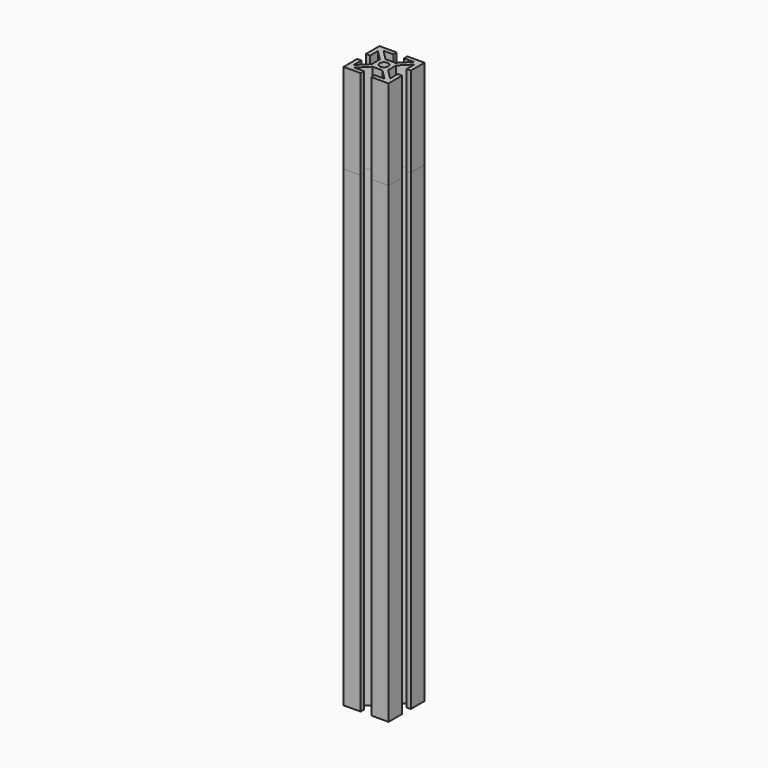
from build123d import *

# Parameters (mm, degrees)
F1_R     = 1.9304845919
F2_DEPTH = 250
F3_DEPTH = 60
F4_DEPTH = 75
F5_DEPTH = 200
F6_DEPTH = 48
F7_DEPTH = 210


with BuildPart() as f2:
    # F1 (on Top) → F2 (new body)
    with BuildSketch(Plane.XY):
        Polygon((13.4341245338, 14.9968527253), (5.8121823951, 14.9968527253), (5.8121823951, 7.3809957916), (7.7024240943, 7.3809957916), (7.7024240943, 11.7346603424), (12.2024253151, 7.2346554595), (12.2024253151, 2.7590573149), (7.7024240943, -1.7409451265), (7.7024240943, 2.6127145415), (5.8121823951, 2.6127145415), (5.8121823951, -5.0031448336), (13.428025901, -5.0031448336), (13.428025901, -3.1311843844), (9.0865720435, -3.1311843843), (13.6048667213, 1.3870968657), (18.0134067604, 1.3870968657), (22.5316855691, -3.1311843843), (18.1902256081, -3.1311843843), (18.1902256081, -5.0031448336), (25.8121860574, -5.0031448336), (25.8121860574, 2.6127145415), (23.9219467996, 2.6127145415), (23.9219467996, -1.7409451265), (19.4219272683, 2.759057315), (19.4219272683, 7.2346554596), (23.9219467996, 11.7346603424), (23.9219467996, 7.3809957916), (25.8121860574, 7.3809957916), (25.8121860574, 14.9968527253), (18.1963266823, 14.9968527253), (18.1963266823, 13.1249008209), (22.5377866433, 13.1249008209), (18.0195053932, 8.6066159088), (13.6109653541, 8.6066159088), (9.0926682349, 13.1249008209), (13.4341245338, 13.1249008209), align=None)
        with Locations((15.8152353737, 4.9968563872)):
            Circle(F1_R, mode=Mode.SUBTRACT)
    extrude(amount=F2_DEPTH)


with BuildPart() as f3:
    # F1 (on Top) → F3 (new body)
    with BuildSketch(Plane.XY):
        Polygon((13.4341245338, 14.9968527253), (5.8121823951, 14.9968527253), (5.8121823951, 7.3809957916), (7.7024240943, 7.3809957916), (7.7024240943, 11.7346603424), (12.2024253151, 7.2346554595), (12.2024253151, 2.7590573149), (7.7024240943, -1.7409451265), (7.7024240943, 2.6127145415), (5.8121823951, 2.6127145415), (5.8121823951, -5.0031448336), (13.428025901, -5.0031448336), (13.428025901, -3.1311843844), (9.0865720435, -3.1311843843), (13.6048667213, 1.3870968657), (18.0134067604, 1.3870968657), (22.5316855691, -3.1311843843), (18.1902256081, -3.1311843843), (18.1902256081, -5.0031448336), (25.8121860574, -5.0031448336), (25.8121860574, 2.6127145415), (23.9219467996, 2.6127145415), (23.9219467996, -1.7409451265), (19.4219272683, 2.759057315), (19.4219272683, 7.2346554596), (23.9219467996, 11.7346603424), (23.9219467996, 7.3809957916), (25.8121860574, 7.3809957916), (25.8121860574, 14.9968527253), (18.1963266823, 14.9968527253), (18.1963266823, 13.1249008209), (22.5377866433, 13.1249008209), (18.0195053932, 8.6066159088), (13.6109653541, 8.6066159088), (9.0926682349, 13.1249008209), (13.4341245338, 13.1249008209), align=None)
        with Locations((15.8152353737, 4.9968563872)):
            Circle(F1_R, mode=Mode.SUBTRACT)
    extrude(amount=F3_DEPTH)


with BuildPart() as f4:
    # F1 (on Top) → F4 (new body)
    with BuildSketch(Plane.XY):
        Polygon((13.4341245338, 14.9968527253), (5.8121823951, 14.9968527253), (5.8121823951, 7.3809957916), (7.7024240943, 7.3809957916), (7.7024240943, 11.7346603424), (12.2024253151, 7.2346554595), (12.2024253151, 2.7590573149), (7.7024240943, -1.7409451265), (7.7024240943, 2.6127145415), (5.8121823951, 2.6127145415), (5.8121823951, -5.0031448336), (13.428025901, -5.0031448336), (13.428025901, -3.1311843844), (9.0865720435, -3.1311843843), (13.6048667213, 1.3870968657), (18.0134067604, 1.3870968657), (22.5316855691, -3.1311843843), (18.1902256081, -3.1311843843), (18.1902256081, -5.0031448336), (25.8121860574, -5.0031448336), (25.8121860574, 2.6127145415), (23.9219467996, 2.6127145415), (23.9219467996, -1.7409451265), (19.4219272683, 2.759057315), (19.4219272683, 7.2346554596), (23.9219467996, 11.7346603424), (23.9219467996, 7.3809957916), (25.8121860574, 7.3809957916), (25.8121860574, 14.9968527253), (18.1963266823, 14.9968527253), (18.1963266823, 13.1249008209), (22.5377866433, 13.1249008209), (18.0195053932, 8.6066159088), (13.6109653541, 8.6066159088), (9.0926682349, 13.1249008209), (13.4341245338, 13.1249008209), align=None)
        with Locations((15.8152353737, 4.9968563872)):
            Circle(F1_R, mode=Mode.SUBTRACT)
    extrude(amount=F4_DEPTH)


with BuildPart() as f5:
    # F1 (on Top) → F5 (new body)
    with BuildSketch(Plane.XY):
        Polygon((13.4341245338, 14.9968527253), (5.8121823951, 14.9968527253), (5.8121823951, 7.3809957916), (7.7024240943, 7.3809957916), (7.7024240943, 11.7346603424), (12.2024253151, 7.2346554595), (12.2024253151, 2.7590573149), (7.7024240943, -1.7409451265), (7.7024240943, 2.6127145415), (5.8121823951, 2.6127145415), (5.8121823951, -5.0031448336), (13.428025901, -5.0031448336), (13.428025901, -3.1311843844), (9.0865720435, -3.1311843843), (13.6048667213, 1.3870968657), (18.0134067604, 1.3870968657), (22.5316855691, -3.1311843843), (18.1902256081, -3.1311843843), (18.1902256081, -5.0031448336), (25.8121860574, -5.0031448336), (25.8121860574, 2.6127145415), (23.9219467996, 2.6127145415), (23.9219467996, -1.7409451265), (19.4219272683, 2.759057315), (19.4219272683, 7.2346554596), (23.9219467996, 11.7346603424), (23.9219467996, 7.3809957916), (25.8121860574, 7.3809957916), (25.8121860574, 14.9968527253), (18.1963266823, 14.9968527253), (18.1963266823, 13.1249008209), (22.5377866433, 13.1249008209), (18.0195053932, 8.6066159088), (13.6109653541, 8.6066159088), (9.0926682349, 13.1249008209), (13.4341245338, 13.1249008209), align=None)
        with Locations((15.8152353737, 4.9968563872)):
            Circle(F1_R, mode=Mode.SUBTRACT)
    extrude(amount=F5_DEPTH)


with BuildPart() as f6:
    # F1 (on Top) → F6 (new body)
    with BuildSketch(Plane.XY):
        Polygon((13.4341245338, 14.9968527253), (5.8121823951, 14.9968527253), (5.8121823951, 7.3809957916), (7.7024240943, 7.3809957916), (7.7024240943, 11.7346603424), (12.2024253151, 7.2346554595), (12.2024253151, 2.7590573149), (7.7024240943, -1.7409451265), (7.7024240943, 2.6127145415), (5.8121823951, 2.6127145415), (5.8121823951, -5.0031448336), (13.428025901, -5.0031448336), (13.428025901, -3.1311843844), (9.0865720435, -3.1311843843), (13.6048667213, 1.3870968657), (18.0134067604, 1.3870968657), (22.5316855691, -3.1311843843), (18.1902256081, -3.1311843843), (18.1902256081, -5.0031448336), (25.8121860574, -5.0031448336), (25.8121860574, 2.6127145415), (23.9219467996, 2.6127145415), (23.9219467996, -1.7409451265), (19.4219272683, 2.759057315), (19.4219272683, 7.2346554596), (23.9219467996, 11.7346603424), (23.9219467996, 7.3809957916), (25.8121860574, 7.3809957916), (25.8121860574, 14.9968527253), (18.1963266823, 14.9968527253), (18.1963266823, 13.1249008209), (22.5377866433, 13.1249008209), (18.0195053932, 8.6066159088), (13.6109653541, 8.6066159088), (9.0926682349, 13.1249008209), (13.4341245338, 13.1249008209), align=None)
        with Locations((15.8152353737, 4.9968563872)):
            Circle(F1_R, mode=Mode.SUBTRACT)
    extrude(amount=F6_DEPTH)


with BuildPart() as f7:
    # F1 (on Top) → F7 (new body)
    with BuildSketch(Plane.XY):
        Polygon((13.4341245338, 14.9968527253), (5.8121823951, 14.9968527253), (5.8121823951, 7.3809957916), (7.7024240943, 7.3809957916), (7.7024240943, 11.7346603424), (12.2024253151, 7.2346554595), (12.2024253151, 2.7590573149), (7.7024240943, -1.7409451265), (7.7024240943, 2.6127145415), (5.8121823951, 2.6127145415), (5.8121823951, -5.0031448336), (13.428025901, -5.0031448336), (13.428025901, -3.1311843844), (9.0865720435, -3.1311843843), (13.6048667213, 1.3870968657), (18.0134067604, 1.3870968657), (22.5316855691, -3.1311843843), (18.1902256081, -3.1311843843), (18.1902256081, -5.0031448336), (25.8121860574, -5.0031448336), (25.8121860574, 2.6127145415), (23.9219467996, 2.6127145415), (23.9219467996, -1.7409451265), (19.4219272683, 2.759057315), (19.4219272683, 7.2346554596), (23.9219467996, 11.7346603424), (23.9219467996, 7.3809957916), (25.8121860574, 7.3809957916), (25.8121860574, 14.9968527253), (18.1963266823, 14.9968527253), (18.1963266823, 13.1249008209), (22.5377866433, 13.1249008209), (18.0195053932, 8.6066159088), (13.6109653541, 8.6066159088), (9.0926682349, 13.1249008209), (13.4341245338, 13.1249008209), align=None)
        with Locations((15.8152353737, 4.9968563872)):
            Circle(F1_R, mode=Mode.SUBTRACT)
    extrude(amount=F7_DEPTH)


solid = Compound([f2.part, f3.part, f4.part, f5.part, f6.part, f7.part])
